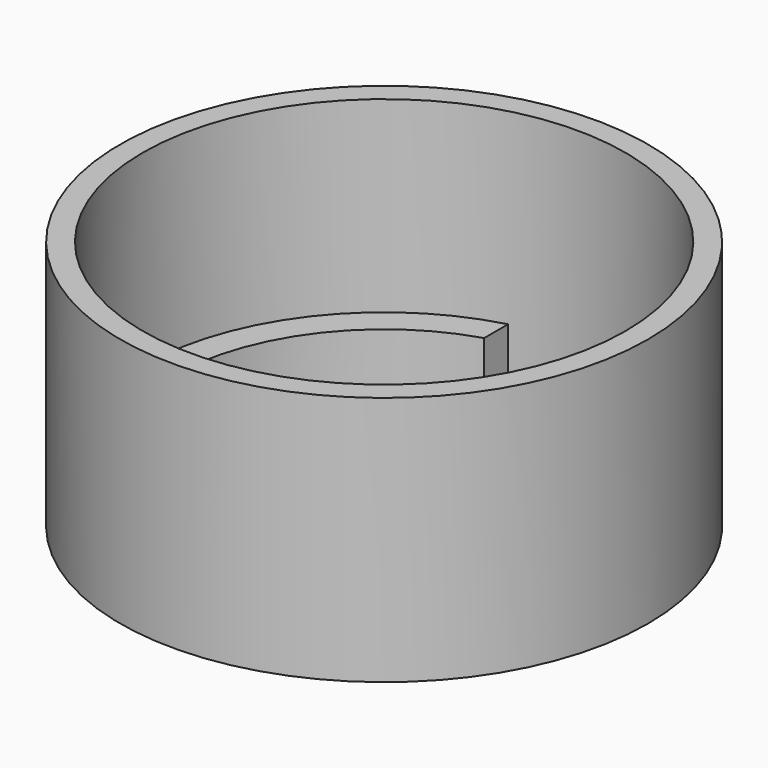
from build123d import *

# Parameters (mm, degrees)
F0_R     = 10.55
F0_R_2   = 9.65
F1_DEPTH = 10
F3_DEPTH = 2.5


with BuildPart() as f1:
    # F0 (on Top) → F1 (new body)
    with BuildSketch(Plane.XY):
        Circle(F0_R)
        Circle(F0_R_2, mode=Mode.SUBTRACT)
    extrude(amount=F1_DEPTH)

    # F2 (on face) → F3 (join)
    with BuildSketch(Plane(origin=(0, 0, 0), x_dir=(1, 0, 0), z_dir=(0, 0, -1))):
        with BuildLine():
            ThreePointArc((-2.5, -8.124038), (-8.5, 0), (-2.5, 8.124038))
            Line((-2.5, 8.124038), (-2.5, 9.320542))
            ThreePointArc((-2.5, 9.320542), (-9.65, 0), (-2.5, -9.320542))
            Line((-2.5, -9.320542), (-2.5, -8.124038))
        make_face()
        with BuildLine():
            ThreePointArc((2.5, -9.320542), (9.65, 0), (2.5, 9.320542))
            Line((2.5, 9.320542), (2.5, 8.124038))
            ThreePointArc((2.5, 8.124038), (8.5, 0), (2.5, -8.124038))
            Line((2.5, -8.124038), (2.5, -9.320542))
        make_face()
    extrude(amount=-F3_DEPTH)


solid = f1.part
